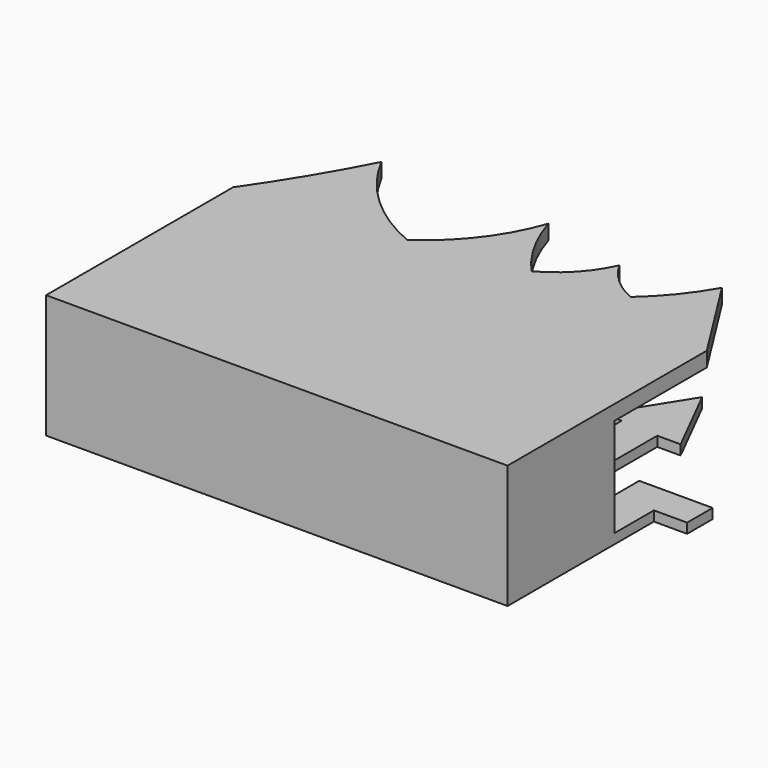
from build123d import *

# Parameters (mm, degrees)
F1_DEPTH = 12
F2_W     = 18
F2_H     = 150
F3_DEPTH = 120
F4_W     = 18
F4_H     = 150
F5_DEPTH = 18
F6_W     = 560
F6_H     = 150
F7_DEPTH = 12


with BuildPart() as f1:
    # F0 (on Top) → F1 (new body)
    with BuildSketch(Plane.XY):
        Polygon((-280, 0), (0, 0), (0, 257.8027844429), (-141.2238776684, 257.8027844429), (-141.2238776684, 334.6943855286), (-116.9423237443, 334.6943855286), (-170.564070344, 420), (-215.0802463293, 331.659168005), (-186.751767993, 331.659168005), (-186.751767993, 187.9933476448), (-231.2679439783, 187.9933476448), (-231.2679439783, 248.6972212791), (-320.3002810478, 248.6972212791), (-320.3002810478, 210), (-280, 210), align=None)
        Polygon((0, 257.8027844429), (0, 0), (280, 0), (280, 210), (320.3002810478, 210), (320.3002810478, 248.6972212791), (231.2679439783, 248.6972212791), (231.2679439783, 187.9933476448), (186.751767993, 187.9933476448), (186.751767993, 331.659168005), (215.0802463293, 331.659168005), (170.564070344, 420), (116.9423237443, 334.6943855286), (141.2238776684, 334.6943855286), (141.2238776684, 257.8027844429), align=None)
    extrude(amount=F1_DEPTH)

    # F2 (on face) → F3 (join)
    with BuildSketch(Plane.XY.offset(12)):
        with Locations((271, 75)):
            Rectangle(F2_W, F2_H)
        with Locations((-271, 75)):
            Rectangle(F2_W, F2_H)
    extrude(amount=F3_DEPTH)

    # F4 (on face) → F5 (join)
    with BuildSketch(Plane.XY.offset(132)):
        with Locations((-271, 75)):
            Rectangle(F4_W, F4_H)
        with BuildLine():
            Line((-262, 150), (-262, 0))
            Line((-262, 0), (280, 0))
            Line((280, 0), (280, 290.2253270149))
            ThreePointArc((280, 290.2253270149), (245.3046465179, 345.1352809089), (210.5378061533, 400))
            ThreePointArc((210.5378061533, 400), (185.6424554033, 363.2406210102), (154.8503190279, 331.2582075596))
            ThreePointArc((154.8503190279, 331.2582075596), (126.7121671615, 349.1136575609), (106.0016453266, 375.2220273018))
            ThreePointArc((106.0016453266, 375.2220273018), (82.2836881086, 339.6685760287), (48.3601950109, 313.6726915836))
            ThreePointArc((48.3601950109, 313.6726915836), (19.4703625217, 354.197972067), (0, 400))
            ThreePointArc((0, 400), (-33.0118277181, 338.4516060295), (-83.5312455893, 290.2253270149))
            ThreePointArc((-83.5312455893, 290.2253270149), (-152.6734230413, 334.7469853741), (-202.7220278978, 400))
            ThreePointArc((-202.7220278978, 400), (-239.2310011006, 334.5488326327), (-280, 271.6628313065))
            Line((-280, 271.6628313065), (-280, 150))
            Line((-280, 150), (-262, 150))
        make_face()
    extrude(amount=F5_DEPTH)

    # F6 (on face) → F7 (join)
    with BuildSketch(Plane.XZ):
        with Locations((0, 75)):
            Rectangle(F6_W, F6_H)
    extrude(amount=F7_DEPTH)


solid = f1.part
